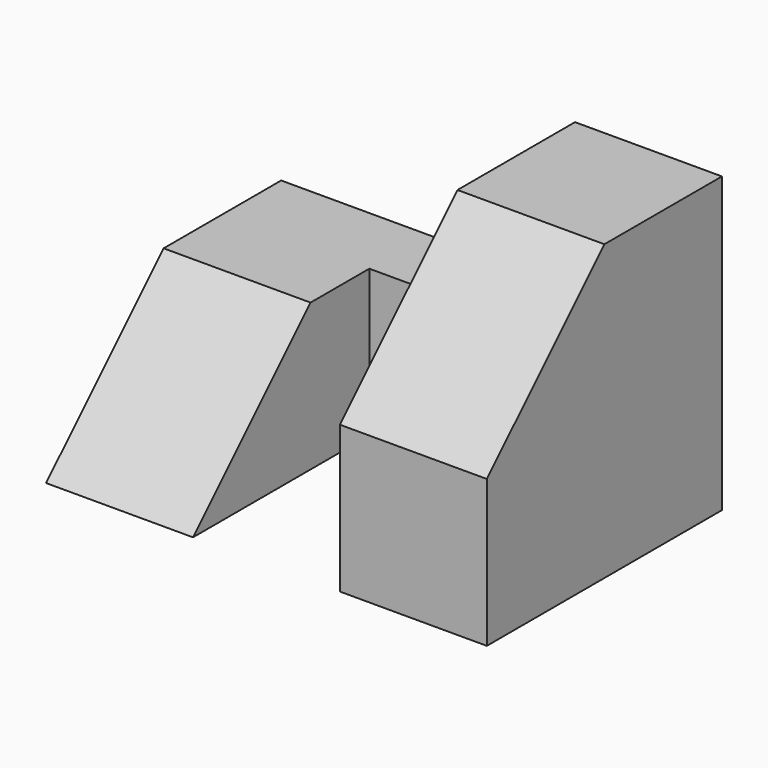
from build123d import *

# Parameters (mm, degrees)
F0_W     = 38.1
F0_H     = 25.4
F1_DEPTH = 25.4
F3_DEPTH = 12.7
F4_W     = 12.7
F4_H     = 6.35
F4_H_2   = 12.7
F5_DEPTH = 25.4
F6_W     = 12.7
F6_H     = 12.7
F7_DEPTH = 25.4
F9_DEPTH = 25.4


with BuildPart() as f1:
    # F0 (on Front) → F1 (new body)
    with BuildSketch(Plane.XZ):
        with Locations((19.05, 12.7)):
            Rectangle(F0_W, F0_H)
    extrude(amount=F1_DEPTH)

    # F2 (on face) → F3 (cut)
    with BuildSketch(Plane.YZ.offset(38.1)):
        Polygon((-25.4, 25.4), (-25.4, 12.7), (-12.7, 25.4), align=None)
    extrude(amount=-F3_DEPTH, mode=Mode.SUBTRACT)

    # F4 (on face) → F5 (cut)
    with BuildSketch(Plane.XY.offset(25.4)):
        with Locations((19.05, -9.525)):
            Rectangle(F4_W, F4_H)
        with Locations((19.05, -19.05)):
            Rectangle(F4_W, F4_H_2)
    extrude(amount=-F5_DEPTH, mode=Mode.SUBTRACT)

    # F6 (on face) → F7 (cut)
    with BuildSketch(Plane(origin=(0, 0, 0), x_dir=(0, -1, 0), z_dir=(-1, 0, 0))):
        with Locations((6.35, 19.05)):
            Rectangle(F6_W, F6_H)
    extrude(amount=-F7_DEPTH, mode=Mode.SUBTRACT)

    # F8 (on face) → F9 (cut)
    with BuildSketch(Plane(origin=(0, 0, 0), x_dir=(0, -1, 0), z_dir=(-1, 0, 0))):
        Polygon((12.7, 25.4), (12.7, 12.7), (25.4, 0), (25.4, 25.4), align=None)
    extrude(amount=-F9_DEPTH, mode=Mode.SUBTRACT)


solid = f1.part
